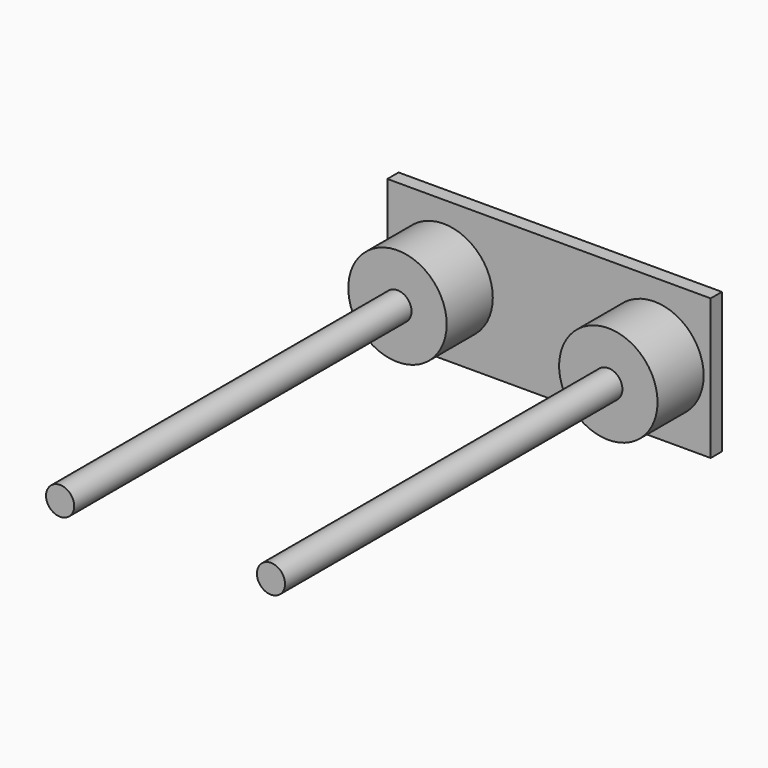
from build123d import *

# Parameters (mm, degrees)
F0_W     = 230
F0_H     = 100
F1_DEPTH = 10
F2_R     = 35
F3_DEPTH = 41
F4_R     = 10
F5_DEPTH = 300


with BuildPart() as f1:
    # F0 (on Front) → F1 (new body)
    with BuildSketch(Plane.XZ):
        Rectangle(F0_W, F0_H)
    extrude(amount=F1_DEPTH)

    # F2 (on face) → F3 (join)
    with BuildSketch(Plane.XZ.offset(10)):
        with Locations((-75, 0)):
            Circle(F2_R)
        with Locations((75, 0)):
            Circle(F2_R)
    extrude(amount=F3_DEPTH)

    # F4 (on face) → F5 (join)
    with BuildSketch(Plane.XZ.offset(51)):
        with Locations((-75, 0)):
            Circle(F4_R)
        with Locations((75, 0)):
            Circle(F4_R)
    extrude(amount=F5_DEPTH)


solid = f1.part
